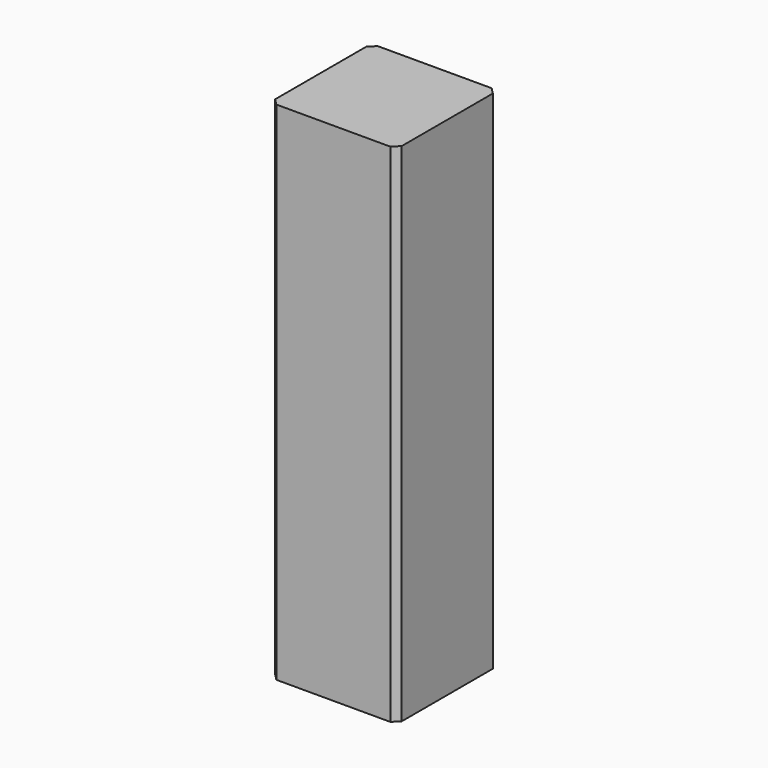
from build123d import *

# Parameters (mm, degrees)
F0_W     = 12.7
F0_H     = 12.7
F1_DEPTH = 50.8
F2_SIZE  = 0.635


with BuildPart() as f1:
    # F0 (on Top) → F1 (new body)
    with BuildSketch(Plane.XY):
        Rectangle(F0_W, F0_H)
    extrude(amount=F1_DEPTH)

    # F2
    f2_edges = [f1.edges().sort_by_distance(p)[0] for p in [
        (-6.35, 6.35, 25.4),
        (-6.35, -6.35, 25.4),
        (6.35, 6.35, 25.4),
        (6.35, -6.35, 25.4),
    ]]
    chamfer(f2_edges, length=F2_SIZE)


solid = f1.part
